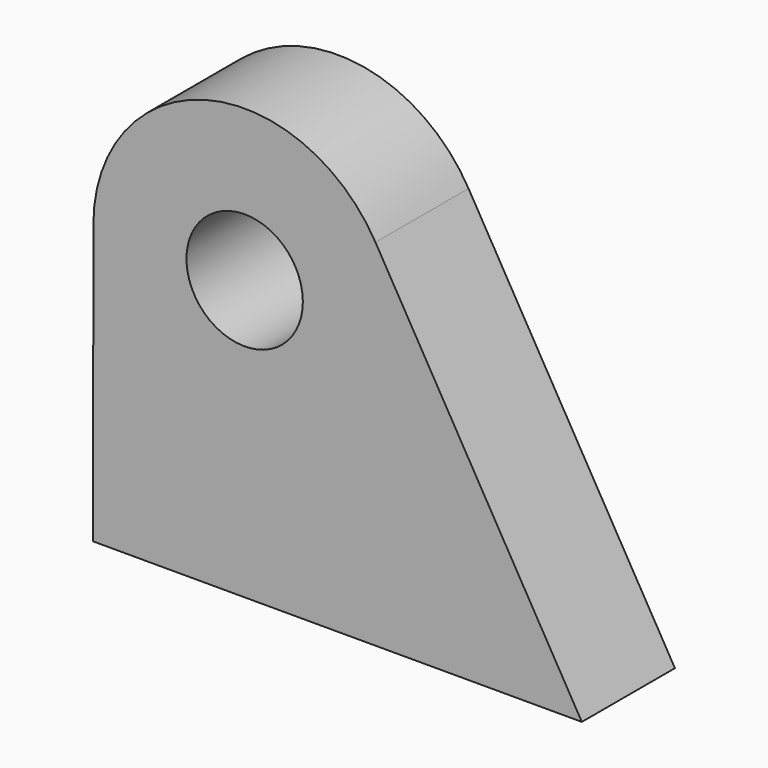
from build123d import *

# Parameters (mm, degrees)
F0_R     = 1.25
F1_DEPTH = 2.5


with BuildPart() as f1:
    # F0 (on Front) → F1 (new body)
    with BuildSketch(Plane.XZ):
        with BuildLine():
            ThreePointArc((-3.249998, 8.457035), (-0.001773, 5.203488), (3.25, 8.453488))
            ThreePointArc((3.25, 8.453488), (3.138074, 9.299061), (2.810004, 10.086393))
            ThreePointArc((2.810004, 10.086393), (-0.843861, 11.592022), (-3.249998, 8.457035))
        make_face()
        with Locations((0, 8.453488)):
            Circle(F0_R, mode=Mode.SUBTRACT)
        with BuildLine():
            ThreePointArc((2.810004, 10.086393), (3.138074, 9.299061), (3.25, 8.453488))
            ThreePointArc((3.25, 8.453488), (-0.001773, 5.203488), (-3.249998, 8.457035))
            Line((-3.249998, 8.457035), (-3.256546, 2.457038))
            Line((-3.256546, 2.457038), (7.243454, 2.457038))
            Line((7.243454, 2.457038), (2.810004, 10.086393))
        make_face()
    extrude(amount=F1_DEPTH)


solid = f1.part
